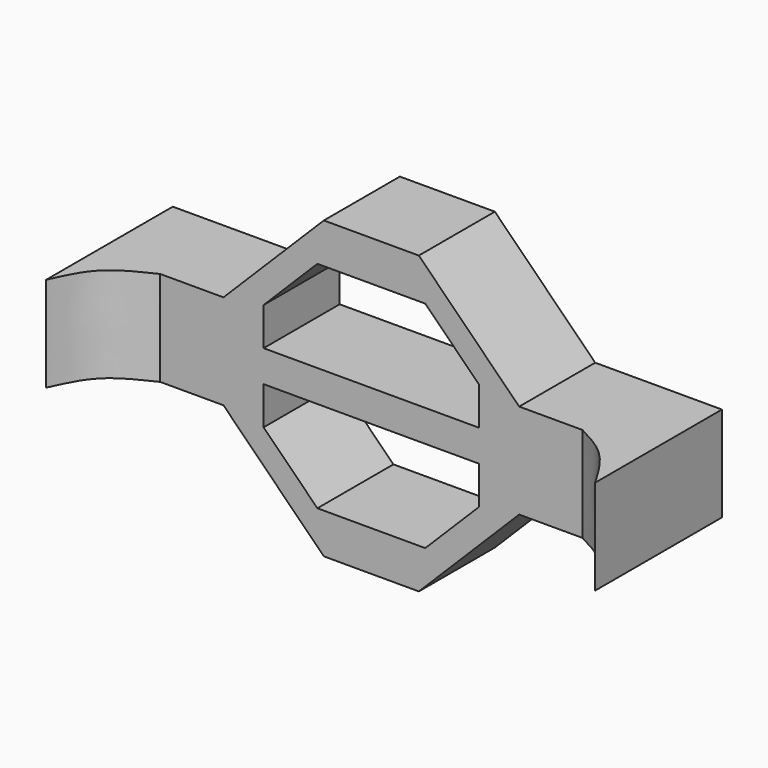
from build123d import *

# Parameters (mm, degrees)
F0_W     = 12.7
F0_H     = 19.05
F1_DEPTH = 19.05
F3_DEPTH = 19.05
F5_DEPTH = 19.05


with BuildPart() as f1:
    # F0 (on Front) → F1 (new body)
    with BuildSketch(Plane.XZ):
        Polygon((-21.9277606558, 43.1296415627), (-40.9777606558, 43.1296415627), (-61.0902286349, 23.0171667248), (-73.7902286349, 23.0171667248), (-73.7902286349, 3.9671667248), (-61.0902286349, 3.9671667248), (-40.9777637411, -16.1453046837), (-21.9277637411, -16.1453046837), (-1.8152923326, 3.9671667248), (10.8847076674, 3.9671667248), (10.8847076674, 23.0171667248), (-1.8152923326, 23.0171667248), align=None)
        Polygon((-53.0427621984, 10.3171667248), (-9.8627621984, 10.3171667248), (-9.8627621984, 2.6971667248), (-20.639071289, -8.0791388752), (-42.2664548532, -8.0791406205), (-53.0427621984, 2.6971667248), align=None, mode=Mode.SUBTRACT)
        Polygon((-9.8627621984, 16.6671667248), (-53.0427621984, 16.6671667248), (-53.0427621984, 24.2871667248), (-42.2664531079, 35.0634723248), (-20.6390695437, 35.0634740701), (-9.8627621984, 24.2871667248), align=None, mode=Mode.SUBTRACT)
        with Locations((-80.1402286349, 13.4921667248)):
            Rectangle(F0_W, F0_H)
        with Locations((17.2347076674, 13.4921667248)):
            Rectangle(F0_W, F0_H)
    extrude(amount=F1_DEPTH)

    # F2 (on face) → F3 (join)
    with BuildSketch(Plane(origin=(0, 0, 3.9671667248), x_dir=(1, 0, 0), z_dir=(0, 0, -1))):
        with BuildLine():
            Line((10.8847076674, 19.05), (23.5847076674, 19.05))
            Line((23.5847076674, 19.05), (23.5847076674, 31.75))
            add(Edge.make_bspline(
                [(10.8847076674, 19.05), (13.2814331351, 20.2980463011), (18.3522044059, 22.9385478577), (21.7780861226, 28.7076780967), (23.5847076674, 31.75)],
                knots=[0, 0, 0, 0, 0.4726550143, 1, 1, 1, 1], degree=3))
        make_face()
    extrude(amount=-F3_DEPTH)

    # F4 (on face) → F5 (join)
    with BuildSketch(Plane(origin=(0, 0, 3.9671667248), x_dir=(1, 0, 0), z_dir=(0, 0, -1))):
        with BuildLine():
            Line((-86.4902286349, 31.75), (-86.4902286349, 19.05))
            Line((-86.4902286349, 19.05), (-73.7902286349, 19.05))
            add(Edge.make_bspline(
                [(-73.7902286349, 19.05), (-76.7799525344, 20.4645934924), (-82.6711867803, 23.2520420685), (-85.2299862455, 28.9457660543), (-86.4902286349, 31.75)],
                knots=[0, 0, 0, 0, 0.5074868482, 1, 1, 1, 1], degree=3))
        make_face()
    extrude(amount=-F5_DEPTH)


solid = f1.part
